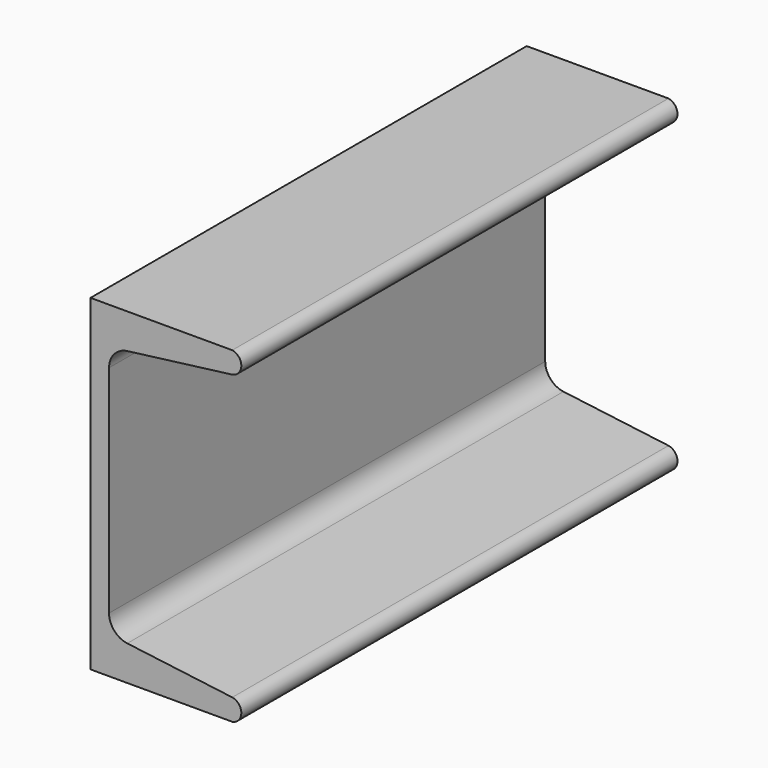
from build123d import *

# Parameters (mm, degrees)
F1_DEPTH = 127


with BuildPart() as f1:
    # F0 (on Front) → F1 (new body)
    with BuildSketch(Plane.XZ):
        with BuildLine():
            Line((0, 38.1), (0, -38.1))
            Line((0, -38.1), (33.02, -38.1))
            ThreePointArc((33.02, -38.1), (35.12925, -35.596791), (33.02, -33.093582))
            Line((33.02, -33.093582), (8.555139, -29.970825))
            ThreePointArc((8.555139, -29.970825), (5.528239, -28.364406), (4.318, -25.158469))
            Line((4.318, -25.158469), (4.318, 0))
            Line((4.318, 0), (4.318, 25.158469))
            ThreePointArc((4.318, 25.158469), (5.528239, 28.364406), (8.555139, 29.970825))
            Line((8.555139, 29.970825), (33.02, 33.093582))
            ThreePointArc((33.02, 33.093582), (35.12925, 35.596791), (33.02, 38.1))
            Line((33.02, 38.1), (0, 38.1))
        make_face()
    extrude(amount=F1_DEPTH)


solid = f1.part
